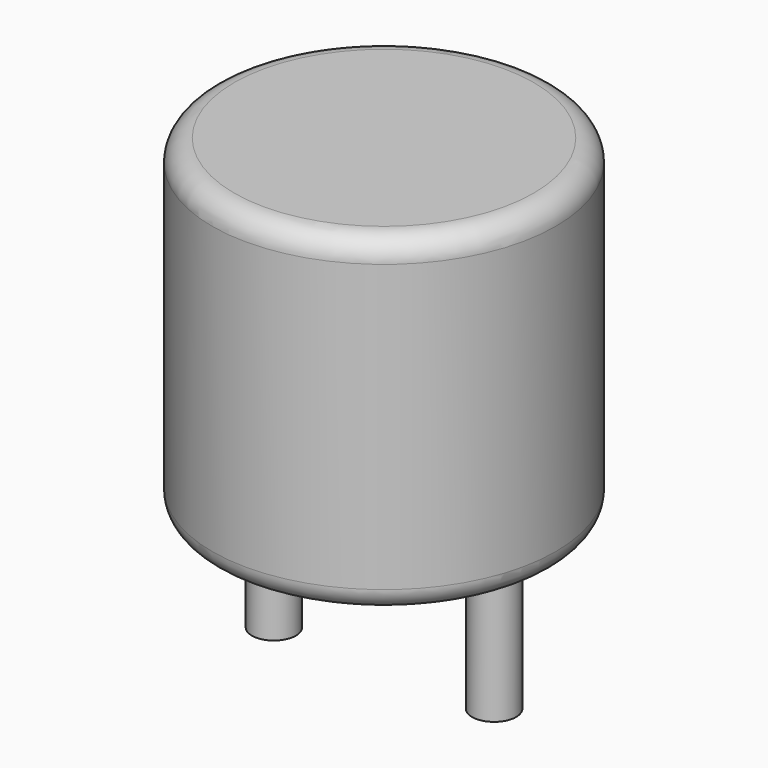
from build123d import *

# Parameters (mm, degrees)
SKETCH001_R       = 0.5
PAD001_DEPTH      = 3.75
PAD001_DEPTH_BACK = 3.5
SKETCH_R          = 3.9
PAD_DEPTH         = 7.5
FILLET_R          = 0.5


with BuildPart() as pad001:
    # Sketch001 → Pad001 (new body, two sides)
    with BuildSketch(Plane.XY.offset(0.5)) as pad001_sk:
        Circle(SKETCH001_R)
        with Locations((5, 0)):
            Circle(SKETCH001_R)
    extrude(amount=PAD001_DEPTH)
    extrude(pad001_sk.sketch, amount=-PAD001_DEPTH_BACK)


with BuildPart() as obj1:
    # Sketch → Pad (new body)
    with BuildSketch(Plane.XY.offset(0.1)):
        with Locations((2.5, 0)):
            Circle(SKETCH_R)
    extrude(amount=PAD_DEPTH)

    # Fillet
    fillet_edges = [obj1.edges().sort_by_distance(p)[0] for p in [
        (-1.4, 0, 0.1),
        (-1.4, 0, 7.6),
    ]]
    fillet(fillet_edges, radius=FILLET_R)

    add(pad001.part)


solid = obj1.part
